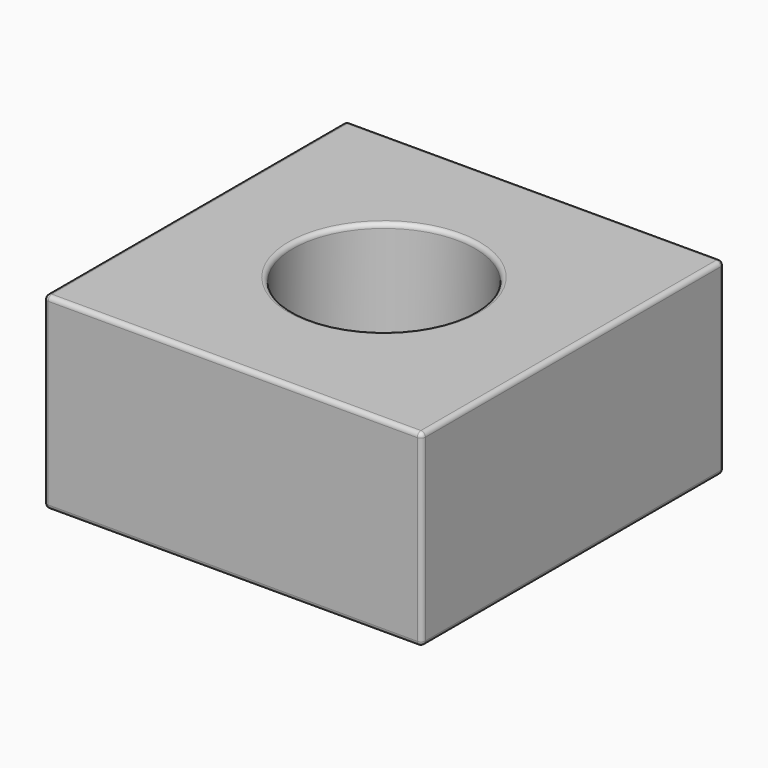
from build123d import *

# Parameters (mm, degrees)
F0_W     = 42.8625
F0_H     = 42.8625
F0_R     = 10.31875
F1_DEPTH = 21.336
F2_R     = 0.508


with BuildPart() as f1:
    # F0 (on Top) → F1 (new body)
    with BuildSketch(Plane.XY):
        with Locations((28.250322, -26.592983)):
            Rectangle(F0_W, F0_H)
        with Locations((28.250322, -26.592983)):
            Circle(F0_R, mode=Mode.SUBTRACT)
    extrude(amount=F1_DEPTH)

    # F2
    f2_edges = [f1.edges().sort_by_distance(p)[0] for p in [
        (28.250322, -5.161733, 0),
        (6.819072, -5.161733, 10.668),
        (28.250322, -5.161733, 21.336),
        (49.681572, -5.161733, 10.668),
        (6.819072, -26.592983, 0),
        (28.250322, -48.024233, 0),
        (49.681572, -26.592983, 0),
        (17.931572, -26.592983, 0),
        (49.681572, -48.024233, 10.668),
        (49.681572, -26.592983, 21.336),
        (6.819072, -26.592983, 21.336),
        (28.250322, -48.024233, 21.336),
        (17.931572, -26.592983, 21.336),
        (6.819072, -48.024233, 10.668),
    ]]
    fillet(f2_edges, radius=F2_R)


solid = f1.part
